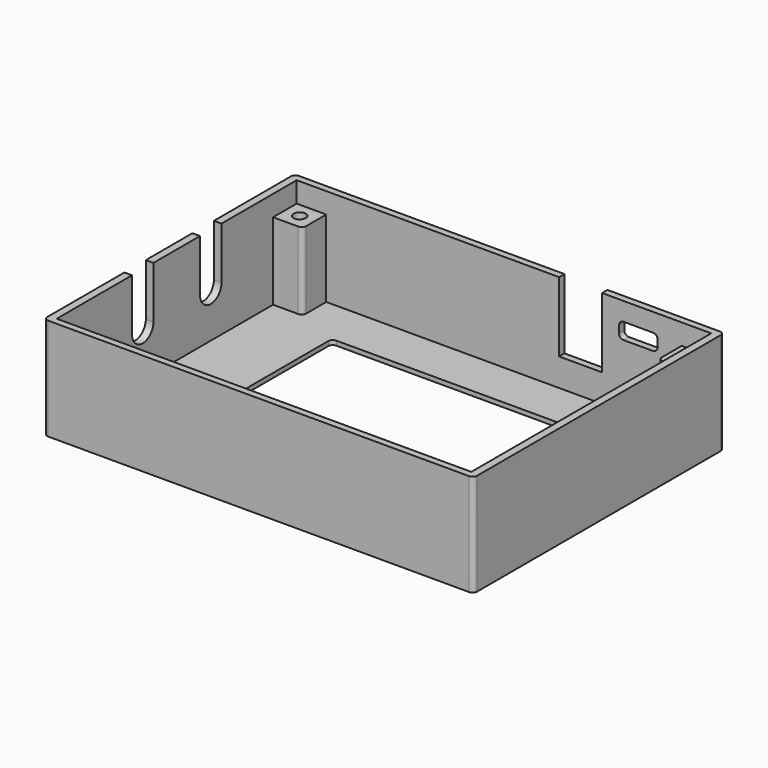
from build123d import *

# Parameters (mm, degrees)
SKETCH_W        = 96
SKETCH_H        = 70
PAD_DEPTH       = 22.8
SKETCH001_W     = 92.6
SKETCH001_H     = 67
POCKET_DEPTH    = 21.8
SKETCH002_W     = 6.6
SKETCH002_H     = 6.6
PAD001_DEPTH    = 17.2
SKETCH003_W     = 61
SKETCH003_H     = 46
POCKET001_DEPTH = 1.001
SKETCH004_R     = 1.35
POCKET002_DEPTH = 10
SKETCH005_R     = 1.35
POCKET003_DEPTH = 10
SKETCH006_R     = 1.35
POCKET004_DEPTH = 10
SKETCH007_R     = 1.35
POCKET005_DEPTH = 10
POCKET006_DEPTH = 1.701
SKETCH009_W     = 7
SKETCH009_H     = 6.3
PAD002_DEPTH    = 12.2
SKETCH010_R     = 2.2
POCKET007_DEPTH = 13.201
SKETCH011_R     = 2.2
POCKET008_DEPTH = 13.201
SKETCH012_R     = 2.2
POCKET009_DEPTH = 13.201
SKETCH013_R     = 2.2
POCKET010_DEPTH = 13.201
SKETCH014_W     = 9.6
SKETCH014_H     = 15.6
POCKET011_DEPTH = 1.501
SKETCH015_W     = 8.6
SKETCH015_H     = 3.6
POCKET012_DEPTH = 1.501
FILLET_R        = 1
FILLET001_R     = 1
CHAMFER_SIZE    = 0.2
FILLET002_R     = 1
FILLET003_R     = 1


with BuildPart() as part:
    # Sketch → Pad (new body)
    with BuildSketch(Plane.XY):
        Rectangle(SKETCH_W, SKETCH_H)
    extrude(amount=PAD_DEPTH)

    # Sketch001 (on Face6 of Pad) → Pocket (cut)
    with BuildSketch(Plane.XY.offset(22.8)):
        Rectangle(SKETCH001_W, SKETCH001_H)
    extrude(amount=-POCKET_DEPTH, mode=Mode.SUBTRACT)

    # Sketch002 (on Face11 of Pocket) → Pad001 (join)
    with BuildSketch(Plane.XY.offset(1)):
        with Locations((-43, 30.2)):
            Rectangle(SKETCH002_W, SKETCH002_H)
        with Locations((43, 30.2)):
            Rectangle(SKETCH002_W, SKETCH002_H)
        with Locations((43, -30.2)):
            Rectangle(SKETCH002_W, SKETCH002_H)
        with Locations((-43, -30.2)):
            Rectangle(SKETCH002_W, SKETCH002_H)
    extrude(amount=PAD001_DEPTH)

    # Sketch003 (on Face13 of Pad001) → Pocket001 (cut, through all)
    with BuildSketch(Plane.XY.offset(1)):
        with Locations((0.3, 0.2)):
            Rectangle(SKETCH003_W, SKETCH003_H)
    extrude(amount=-POCKET001_DEPTH, mode=Mode.SUBTRACT)

    # Sketch004 (on Face19 of Pocket001) → Pocket002 (cut)
    with BuildSketch(Plane.XY.offset(18.2)):
        with Locations((-43, 30.2)):
            Circle(SKETCH004_R)
    extrude(amount=-POCKET002_DEPTH, mode=Mode.SUBTRACT)

    # Sketch005 (on Face16 of Pocket002) → Pocket003 (cut)
    with BuildSketch(Plane.XY.offset(18.2)):
        with Locations((43, 30.2)):
            Circle(SKETCH005_R)
    extrude(amount=-POCKET003_DEPTH, mode=Mode.SUBTRACT)

    # Sketch006 (on Face23 of Pocket003) → Pocket004 (cut)
    with BuildSketch(Plane.XY.offset(18.2)):
        with Locations((-43, -30.2)):
            Circle(SKETCH006_R)
    extrude(amount=-POCKET004_DEPTH, mode=Mode.SUBTRACT)

    # Sketch007 (on Face20 of Pocket004) → Pocket005 (cut)
    with BuildSketch(Plane.XY.offset(18.2)):
        with Locations((43, -30.2)):
            Circle(SKETCH007_R)
    extrude(amount=-POCKET005_DEPTH, mode=Mode.SUBTRACT)

    # Sketch008 (on Face14 of Pocket005) → Pocket006 (cut, through all)
    with BuildSketch(Plane.YZ.offset(-46.3)):
        with BuildLine():
            Line((-12.5, 22.8), (-6.5, 22.8))
            Line((-6.5, 22.8), (-6.5, 11.2))
            ThreePointArc((-12.5, 11.2), (-9.5, 8.2), (-6.5, 11.2))
            Line((-12.5, 11.2), (-12.5, 22.8))
        make_face()
        with BuildLine():
            Line((6.5, 22.8), (12.5, 22.8))
            Line((12.5, 22.8), (12.5, 11.2))
            ThreePointArc((6.5, 11.2), (9.5, 8.2), (12.5, 11.2))
            Line((6.5, 11.2), (6.5, 22.8))
        make_face()
    extrude(amount=-POCKET006_DEPTH, mode=Mode.SUBTRACT)

    # Sketch009 (on Face22 of Pocket006) → Pad002 (join)
    with BuildSketch(Plane.XY.offset(1)):
        with Locations((-29.7, -30.35)):
            Rectangle(SKETCH009_W, SKETCH009_H)
        with Locations((-14, -30.35)):
            Rectangle(SKETCH009_W, SKETCH009_H)
        with Locations((1.7, -30.35)):
            Rectangle(SKETCH009_W, SKETCH009_H)
        with Locations((17.4, -30.35)):
            Rectangle(SKETCH009_W, SKETCH009_H)
    extrude(amount=PAD002_DEPTH)

    # Sketch010 (on Face35 of Pad002) → Pocket007 (cut, through all)
    with BuildSketch(Plane.XY.offset(13.2)):
        with Locations((-29.7, -30.5)):
            Circle(SKETCH010_R)
    extrude(amount=-POCKET007_DEPTH, mode=Mode.SUBTRACT)

    # Sketch011 (on Face39 of Pocket007) → Pocket008 (cut, through all)
    with BuildSketch(Plane.XY.offset(13.2)):
        with Locations((-14, -30.5)):
            Circle(SKETCH011_R)
    extrude(amount=-POCKET008_DEPTH, mode=Mode.SUBTRACT)

    # Sketch012 (on Face43 of Pocket008) → Pocket009 (cut, through all)
    with BuildSketch(Plane.XY.offset(13.2)):
        with Locations((1.7, -30.5)):
            Circle(SKETCH012_R)
    extrude(amount=-POCKET009_DEPTH, mode=Mode.SUBTRACT)

    # Sketch013 (on Face47 of Pocket009) → Pocket010 (cut, through all)
    with BuildSketch(Plane.XY.offset(13.2)):
        with Locations((17.4, -30.5)):
            Circle(SKETCH013_R)
    extrude(amount=-POCKET010_DEPTH, mode=Mode.SUBTRACT)

    # Sketch014 (on Face23 of Pocket010) → Pocket011 (cut, through all)
    with BuildSketch(Plane.XZ.offset(-33.5)):
        with Locations((17.1, 15)):
            Rectangle(SKETCH014_W, SKETCH014_H)
    extrude(amount=-POCKET011_DEPTH, mode=Mode.SUBTRACT)

    # Sketch015 (on Face19 of Pocket011) → Pocket012 (cut, through all)
    with BuildSketch(Plane.XZ.offset(-33.5)):
        with Locations((30, 16.9)):
            Rectangle(SKETCH015_W, SKETCH015_H)
    extrude(amount=-POCKET012_DEPTH, mode=Mode.SUBTRACT)

    # Fillet
    fillet_edges = [part.edges().sort_by_distance(p)[0] for p in [
        (48, 35, 11.4),
        (-48, 35, 11.4),
        (-48, -35, 11.4),
        (48, -35, 11.4),
    ]]
    fillet(fillet_edges, radius=FILLET_R)

    # Fillet001
    fillet001_edges = [part.edges().sort_by_distance(p)[0] for p in [
        (-39.7, 26.9, 9.6),
        (39.7, 26.9, 9.6),
        (39.7, -26.9, 9.6),
        (20.9, -27.2, 7.1),
        (13.9, -27.2, 7.1),
        (5.2, -27.2, 7.1),
        (-1.8, -27.2, 7.1),
        (-10.5, -27.2, 7.1),
        (-17.5, -27.2, 7.1),
        (-26.2, -27.2, 7.1),
        (-33.2, -27.2, 7.1),
        (-39.7, -26.9, 9.6),
    ]]
    fillet(fillet001_edges, radius=FILLET001_R)

    # Chamfer
    chamfer_edges = [part.edges().sort_by_distance(p)[0] for p in [
        (15.2, -30.5, 0),
        (-0.5, -30.5, 0),
        (-16.2, -30.5, 0),
        (-31.9, -30.5, 0),
    ]]
    chamfer(chamfer_edges, length=CHAMFER_SIZE)

    # Fillet002
    fillet002_edges = [part.edges().sort_by_distance(p)[0] for p in [
        (34.3, 34.25, 15.1),
        (34.3, 34.25, 18.7),
        (25.7, 34.25, 18.7),
        (25.7, 34.25, 15.1),
    ]]
    fillet(fillet002_edges, radius=FILLET002_R)

    # Fillet003
    fillet003_edges = [part.edges().sort_by_distance(p)[0] for p in [
        (-30.2, 23.2, 0.5),
        (30.8, 23.2, 0.5),
        (30.8, -22.8, 0.5),
        (-30.2, -22.8, 0.5),
    ]]
    fillet(fillet003_edges, radius=FILLET003_R)


solid = part.part
